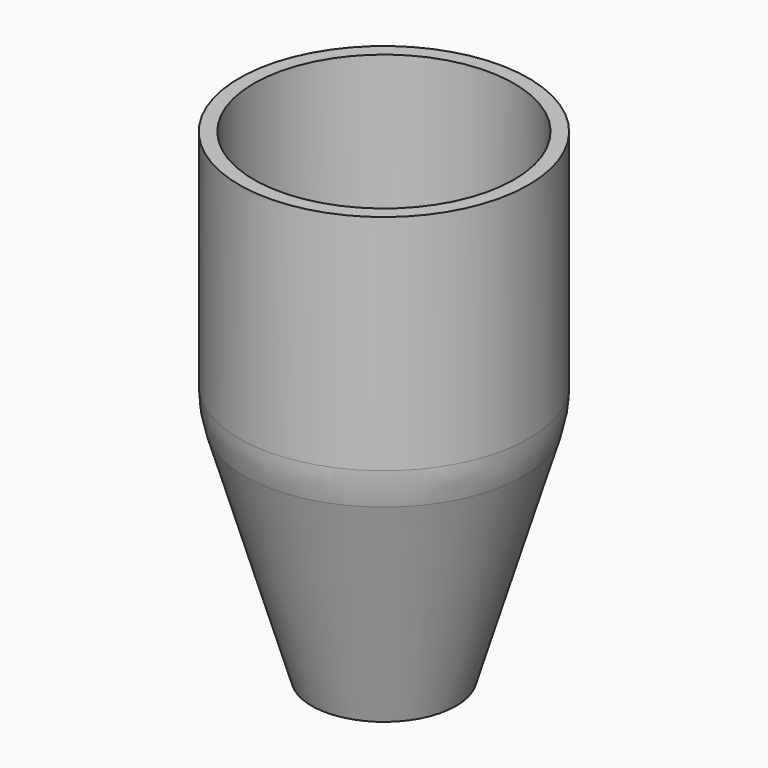
from build123d import *

# Parameters (mm, degrees)
F2_R = 25
F3_T = -3


with BuildPart() as f1:
    # F0 (on Front) → F1 (revolve)
    with BuildSketch(Plane.XZ):
        Polygon((0, 100), (0, 0), (15, 0), (30, 50), (30, 100), align=None)
    revolve(axis=Axis((0, 0, 50), (0, 0, 1)))

    # F2
    f2_edges = [f1.edges().sort_by_distance(p)[0] for p in [
        (-30, 0, 50),
    ]]
    fillet(f2_edges, radius=F2_R)

    # F3
    f3_openings = [f1.faces().sort_by_distance(p)[0] for p in [
        (0, 0, 100),
        (0, 0, 0),
    ]]
    offset(amount=F3_T, openings=f3_openings)


solid = f1.part
